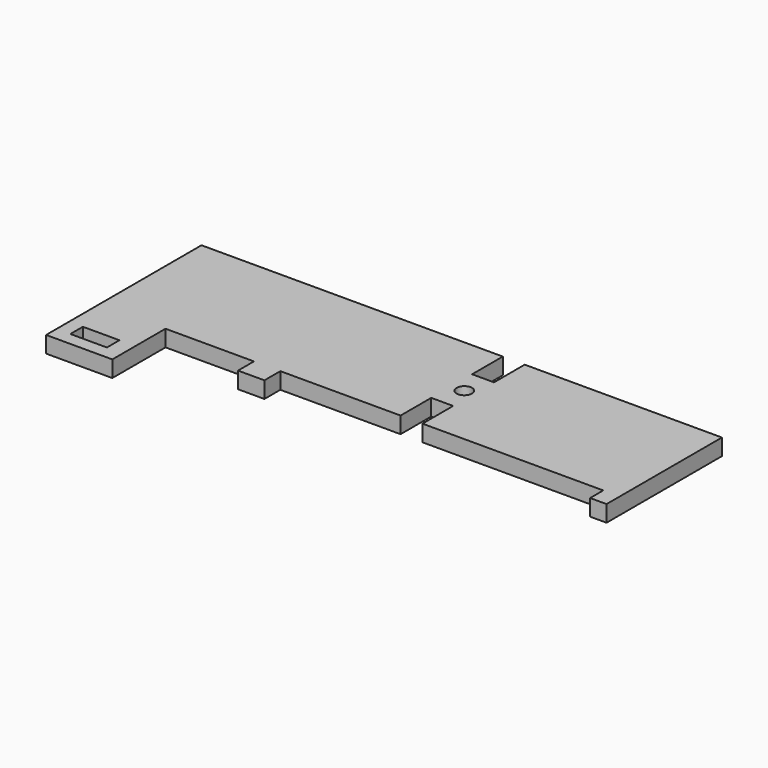
from build123d import *

# Parameters (mm, degrees)
F1_DEPTH = 3
F2_W     = 6.6697
F2_H     = 2.858443
F2_R     = 1.413331
F3_DEPTH = 25


with BuildPart() as f1:
    # F0 (on Top) → F1 (new body)
    with BuildSketch(Plane.XY):
        Polygon((7.5, 11.661676), (-47.5, 11.661676), (-47.5, -11.661676), (-47.5, -23.794964), (-35.409175, -23.794964), (-35.409175, -11.661676), (-19.262591, -11.661676), (-19.262591, -15.296764), (-14.446942, -15.296764), (-14.446942, -11.661676), (7.5, -11.661676), (7.5, -4.661676), (11.5, -4.661676), (11.5, -11.661676), (44.5, -11.661676), (44.5, -14.661676), (47.5, -14.661676), (47.5, -11.661676), (47.5, 11.661676), (11.5, 11.661676), (11.5, 4.661676), (7.5, 4.661676), align=None)
    extrude(amount=F1_DEPTH)

    # F2 (on face) → F3 (cut)
    with BuildSketch(Plane(origin=(0, 0, 0), x_dir=(1, 0, 0), z_dir=(0, 0, -1))):
        with Locations((-41.646808, 19.972993)):
            Rectangle(F2_W, F2_H)
        with Locations((9.805162, 0)):
            Circle(F2_R)
    extrude(amount=-F3_DEPTH, mode=Mode.SUBTRACT)


solid = f1.part
